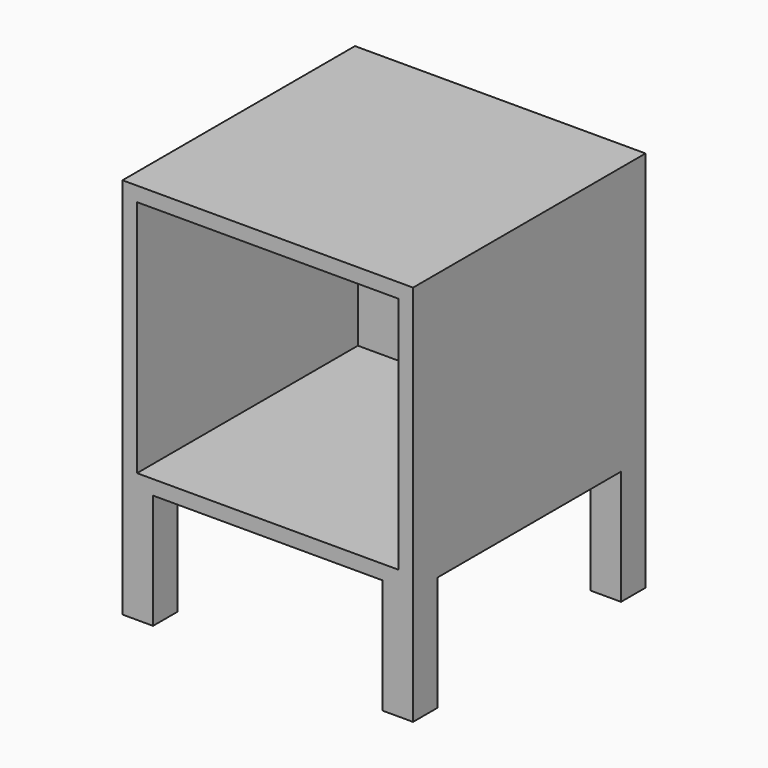
from build123d import *

# Parameters (mm, degrees)
F0_W     = 380
F0_H     = 380
F1_DEPTH = 350
F2_W     = 342
F2_H     = 312
F3_DEPTH = 361
F4_W     = 40
F4_H     = 40
F5_DEPTH = 150


with BuildPart() as f1:
    # F0 (on Top) → F1 (new body)
    with BuildSketch(Plane.XY):
        Rectangle(F0_W, F0_H)
    extrude(amount=F1_DEPTH)

    # F2 (on face) → F3 (cut)
    with BuildSketch(Plane.XZ.offset(190)):
        with Locations((0, 175)):
            Rectangle(F2_W, F2_H)
    extrude(amount=-F3_DEPTH, mode=Mode.SUBTRACT)

    # F4 (on face) → F5 (join)
    with BuildSketch(Plane(origin=(0, 0, 0), x_dir=(1, 0, 0), z_dir=(0, 0, -1))):
        with Locations((170, 170)):
            Rectangle(F4_W, F4_H)
        with Locations((-170, 170)):
            Rectangle(F4_W, F4_H)
        with Locations((-170, -170)):
            Rectangle(F4_W, F4_H)
        with Locations((170, -170)):
            Rectangle(F4_W, F4_H)
    extrude(amount=F5_DEPTH)


solid = f1.part
